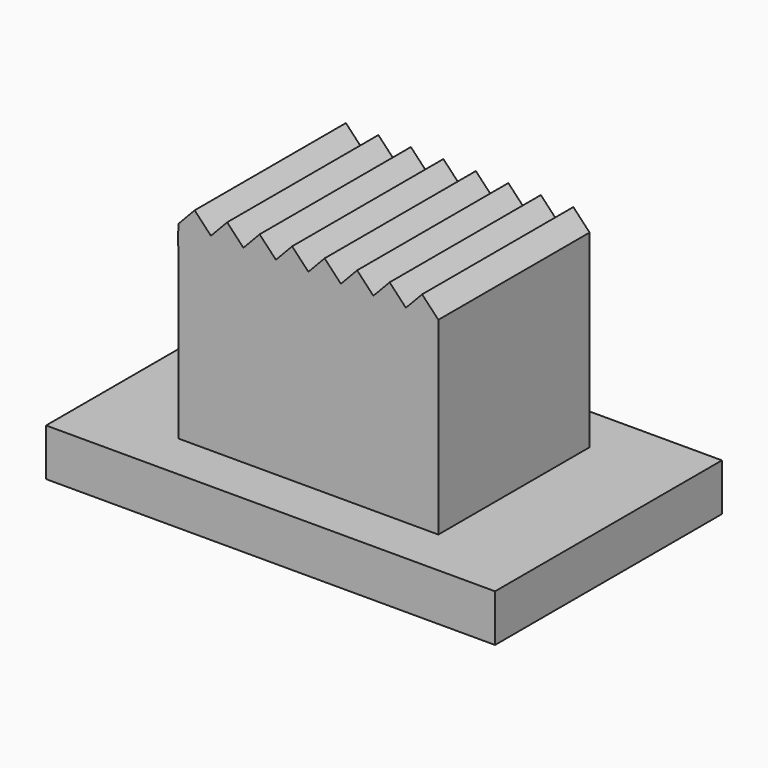
from build123d import *

# Parameters (mm, degrees)
SKETCH_W     = 9.5
SKETCH_H     = 6
SKETCH_W_2   = 1.65
SKETCH_H_2   = 1.35
PAD_DEPTH    = 1
SKETCH001_W  = 5.5
SKETCH001_H  = 4
PAD001_DEPTH = 4
SKETCH002_W  = 1.65
SKETCH002_H  = 1.35
POCKET_DEPTH = 2
PAD002_DEPTH = 4


with BuildPart() as part:
    # Sketch → Pad (new body)
    with BuildSketch(Plane.XY):
        Rectangle(SKETCH_W, SKETCH_H)
        with Locations((1.425, 0)):
            Rectangle(SKETCH_W_2, SKETCH_H_2, mode=Mode.SUBTRACT)
    extrude(amount=PAD_DEPTH)

    # Sketch001 (on Face10 of Pad) → Pad001 (join)
    with BuildSketch(Plane.XY.offset(1)):
        Rectangle(SKETCH001_W, SKETCH001_H)
    extrude(amount=PAD001_DEPTH)

    # Sketch002 (on Face4 of Pad001) → Pocket (cut)
    with BuildSketch(Plane(origin=(0, 0, 0), x_dir=(1, 0, 0), z_dir=(0, 0, -1))):
        with Locations((1.425, 0)):
            Rectangle(SKETCH002_W, SKETCH002_H)
    extrude(amount=-POCKET_DEPTH, mode=Mode.SUBTRACT)

    # Sketch003 (on Face11 of Pocket) → Pad002 (join)
    with BuildSketch(Plane(origin=(0, 2, 0), x_dir=(-1, 0, 0), z_dir=(0, 1, 0))):
        Polygon((-2.75, 5), (-2.40625, 5.363092), (-2.0625, 5), (-1.71875, 5.363092), (-1.375, 5), (-1.03125, 5.363092), (-0.6875, 5), (-0.34375, 5.363092), (0, 5), (0.34375, 5.363092), (0.6875, 5), (1.03125, 5.363092), (1.375, 5), (1.71875, 5.363092), (2.0625, 5), (2.40625, 5.363092), (2.75, 5), (2.760715, 4.584067), (-2.75, 4.584067), align=None)
    extrude(amount=-PAD002_DEPTH)


solid = part.part
